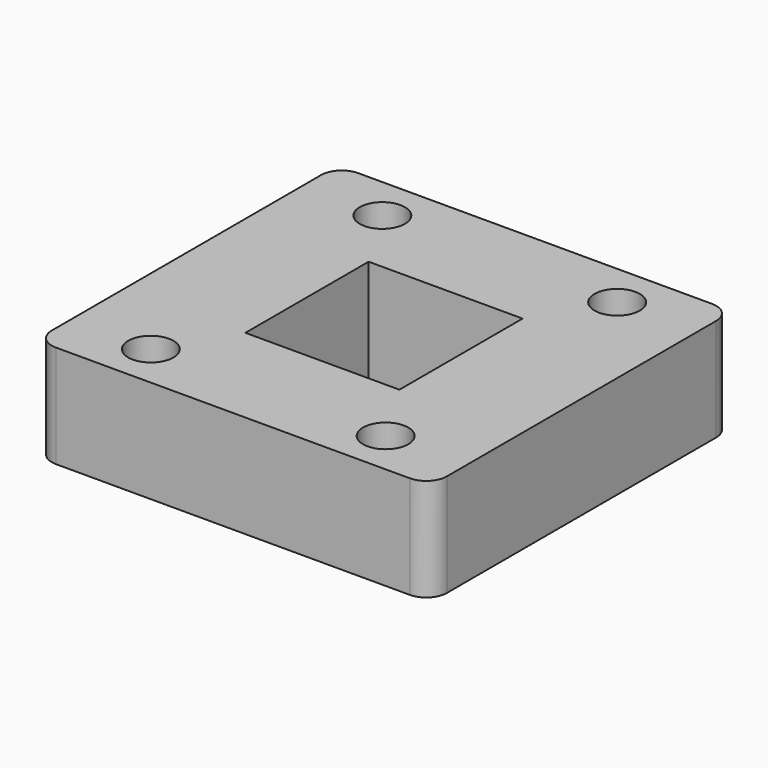
from build123d import *

# Parameters (mm, degrees)
F0_W     = 24.4336966982
F0_H     = 23.368
F0_W_2   = 9.525
F0_H_2   = 9.525
F1_DEPTH = 6.35
F3_R     = 1.27
F4_DEPTH = 6.35


with BuildPart() as f1:
    # F0 (on Top) → F1 (new body)
    with BuildSketch(Plane.XY):
        Rectangle(F0_W, F0_H)
        Rectangle(F0_W_2, F0_H_2, mode=Mode.SUBTRACT)
    extrude(amount=F1_DEPTH)

    # F3
    f3_edges = [f1.edges().sort_by_distance(p)[0] for p in [
        (12.216848, 11.684, 3.175),
        (-12.216848, 11.684, 3.175),
        (-12.216848, -11.684, 3.175),
        (12.216848, -11.684, 3.175),
    ]]
    fillet(f3_edges, radius=F3_R)

    # F2 (on face) → F4 (cut)
    with BuildSketch(Plane.XY.offset(6.35)):
        with BuildLine():
            Line((-8.6625, 8.95), (-5.8625, 8.95))
            ThreePointArc((-5.8625, 8.95), (-7.2625, 10.35), (-8.6625, 8.95))
        make_face()
        with BuildLine():
            ThreePointArc((-8.6625, 8.95), (-7.2625, 7.55), (-5.8625, 8.95))
            Line((-5.8625, 8.95), (-8.6625, 8.95))
        make_face()
        with BuildLine():
            Line((5.8625, 8.95), (8.6625, 8.95))
            ThreePointArc((8.6625, 8.95), (7.2625, 10.35), (5.8625, 8.95))
        make_face()
        with BuildLine():
            ThreePointArc((5.8625, 8.95), (7.2625, 7.55), (8.6625, 8.95))
            Line((8.6625, 8.95), (5.8625, 8.95))
        make_face()
        with BuildLine():
            Line((5.8625, -8.95), (8.6625, -8.95))
            ThreePointArc((8.6625, -8.95), (7.2625, -7.55), (5.8625, -8.95))
        make_face()
        with BuildLine():
            ThreePointArc((5.8625, -8.95), (7.2625, -10.35), (8.6625, -8.95))
            Line((8.6625, -8.95), (5.8625, -8.95))
        make_face()
        with BuildLine():
            Line((-8.6625, -8.95), (-5.8625, -8.95))
            ThreePointArc((-5.8625, -8.95), (-7.2625, -7.55), (-8.6625, -8.95))
        make_face()
        with BuildLine():
            ThreePointArc((-8.6625, -8.95), (-7.2625, -10.35), (-5.8625, -8.95))
            Line((-5.8625, -8.95), (-8.6625, -8.95))
        make_face()
    extrude(amount=-F4_DEPTH, mode=Mode.SUBTRACT)


solid = f1.part
